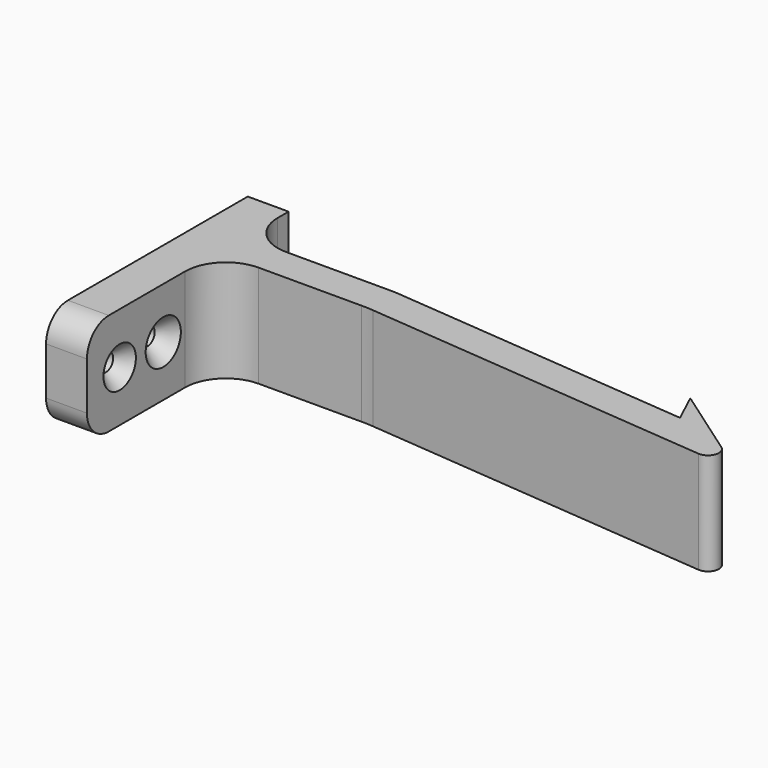
from build123d import *

# Parameters (mm, degrees)
F1_DEPTH = 9.525
F6_R     = 5.08


with BuildPart() as f1:
    # F0 (on Top) → F1 (new body, symmetric)
    with BuildSketch(Plane.XY):
        with BuildLine():
            Line((0, 0), (0, -36.83))
            Line((0, -36.83), (7.62, -36.83))
            Line((7.62, -36.83), (7.62, -13.97))
            ThreePointArc((7.62, -13.97), (9.851846, -8.581846), (15.24, -6.35))
            Line((15.24, -6.35), (34.451012, -6.35))
            ThreePointArc((34.451012, -6.35), (35.558944, -6.374175), (36.664768, -6.446655))
            Line((36.664768, -6.446655), (101.84481, -12.149169))
            ThreePointArc((101.84481, -12.149169), (103.931366, -10.819887), (103.187418, -8.460385))
            Line((103.187418, -8.460385), (90.026374, 0.755077))
            Line((90.026374, 0.755077), (92.71, -4.999977))
            Line((92.71, -4.999977), (36.664768, -0.096655))
            ThreePointArc((36.664768, -0.096655), (35.558944, -0.024175), (34.451012, 0))
            Line((34.451012, 0), (15.24, 0))
            ThreePointArc((15.24, 0), (9.851846, 2.231846), (7.62, 7.62))
            Line((7.62, 7.62), (7.62, 10.16))
            Line((7.62, 10.16), (0, 10.16))
            Line((0, 10.16), (0, 0))
        make_face()
    extrude(amount=F1_DEPTH, both=True)

    # F2 (on Top) → F3 (revolve, cut)
    with BuildSketch(Plane.XY):
        Polygon((0, -19.05), (0, -20.701), (4.699, -20.701), (9.652, -24.85706), (11.555037, -24.85706), (11.555037, -19.05), (9.652, -19.05), align=None)
    revolve(axis=Axis((-2.504904, -19.05, 0), (-1, 0, 0)), mode=Mode.SUBTRACT)

    # F4 (on Top) → F5 (revolve, cut)
    with BuildSketch(Plane.XY):
        Polygon((7.62, -29.21), (0, -29.21), (0, -30.861), (5.08, -30.861), (7.62, -32.992313), align=None)
    revolve(axis=Axis((3.81, -29.21, 0), (1, 0, 0)), mode=Mode.SUBTRACT)

    # F6
    f6_edges = [f1.edges().sort_by_distance(p)[0] for p in [
        (3.81, -36.83, 9.525),
        (3.81, -36.83, -9.525),
    ]]
    fillet(f6_edges, radius=F6_R)

    # F7 (on Top) → F8 (revolve, cut)
    with BuildSketch(Plane.XY):
        Polygon((0, 5.08), (0, 3.429), (4.699, 3.429), (8.038316, 0.626982), (15.24, 0.626982), (15.24, 5.08), (8.038316, 5.08), align=None)
    revolve(axis=Axis((4.019158, 5.08, 0), (-1, 0, 0)), mode=Mode.SUBTRACT)


solid = f1.part
